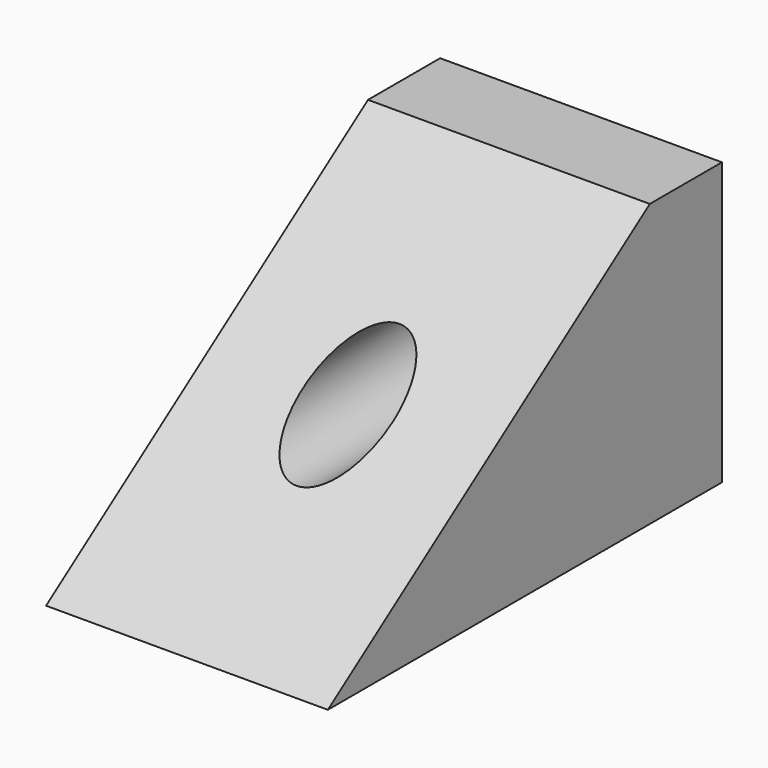
from build123d import *

# Parameters (mm, degrees)
PAD006_DEPTH    = 12.5
SKETCH011_R     = 1
POCKET015_DEPTH = 50
SKETCH_R        = 2
POCKET_DEPTH    = 21.85185


with BuildPart() as part:
    # Sketch010 → Pad006 (new body)
    with BuildSketch(Plane.YZ):
        Polygon((-21.85185, 0), (0, 0), (0, 12.5), (-4, 12.5), align=None)
    extrude(amount=PAD006_DEPTH)

    # Sketch011 → Pocket015 (cut)
    with BuildSketch(Plane.XZ):
        with Locations((6.25, 6.25)):
            Circle(SKETCH011_R)
    extrude(amount=POCKET015_DEPTH, mode=Mode.SUBTRACT)

    # Sketch (on DatumPlane) → Pocket (cut)
    with BuildSketch(Plane.XZ.offset(4)):
        with Locations((6.25, 6.25)):
            Circle(SKETCH_R)
    extrude(amount=POCKET_DEPTH, mode=Mode.SUBTRACT)


solid = part.part
